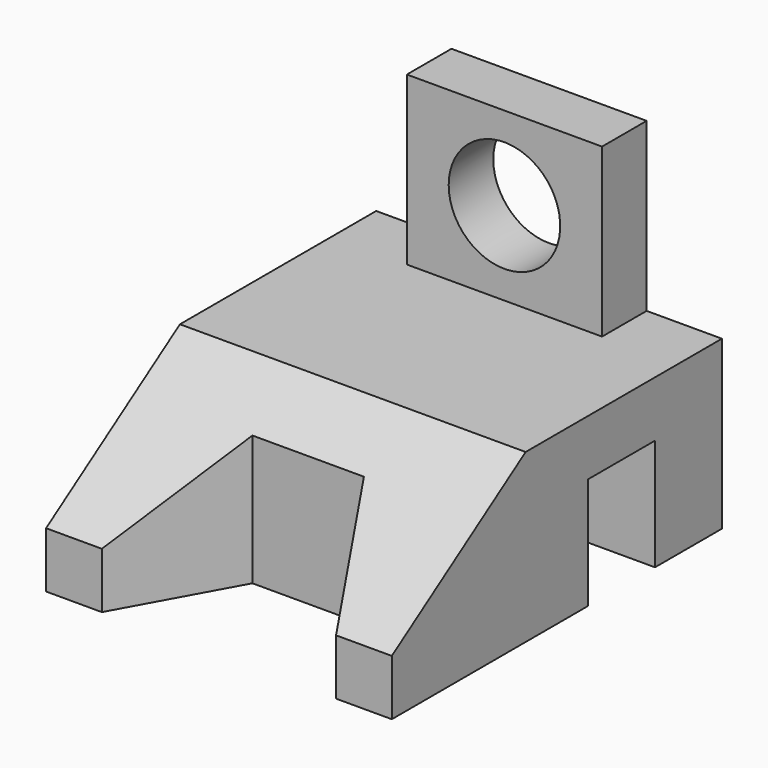
from build123d import *

# Parameters (mm, degrees)
F1_DEPTH = 30
F2_W     = 15
F2_H     = 20
F3_DEPTH = 84.5
F5_DEPTH = 30
F6_R     = 10
F7_DEPTH = 25


with BuildPart() as f1:
    # F0 (on Top) → F1 (new body)
    with BuildSketch(Plane.XY):
        Polygon((21, -37), (31, -37), (31, 37), (-31, 37), (-31, -37), (-21, -37), (-10, -17), (0, -17), (10, -17), align=None)
    extrude(amount=F1_DEPTH)

    # F2 (on face) → F3 (cut)
    with BuildSketch(Plane.YZ.offset(31)):
        with Locations((14.5, 10)):
            Rectangle(F2_W, F2_H)
        Polygon((-37, 10), (-7, 30), (-37, 30), align=None)
    extrude(amount=-F3_DEPTH, mode=Mode.SUBTRACT)

    # F4 (on face) → F5 (join)
    with BuildSketch(Plane.XY.offset(30)):
        Polygon((-17.499998, 27), (17.500002, 27), (17.5, 37), (-17.5, 37), align=None)
    extrude(amount=F5_DEPTH)

    # F6 (on face) → F7 (cut)
    with BuildSketch(Plane(origin=(0, 37, 0), x_dir=(-1, 0, 0), z_dir=(0, 1, 0))):
        with Locations((0, 45)):
            Circle(F6_R)
    extrude(amount=-F7_DEPTH, mode=Mode.SUBTRACT)


solid = f1.part
